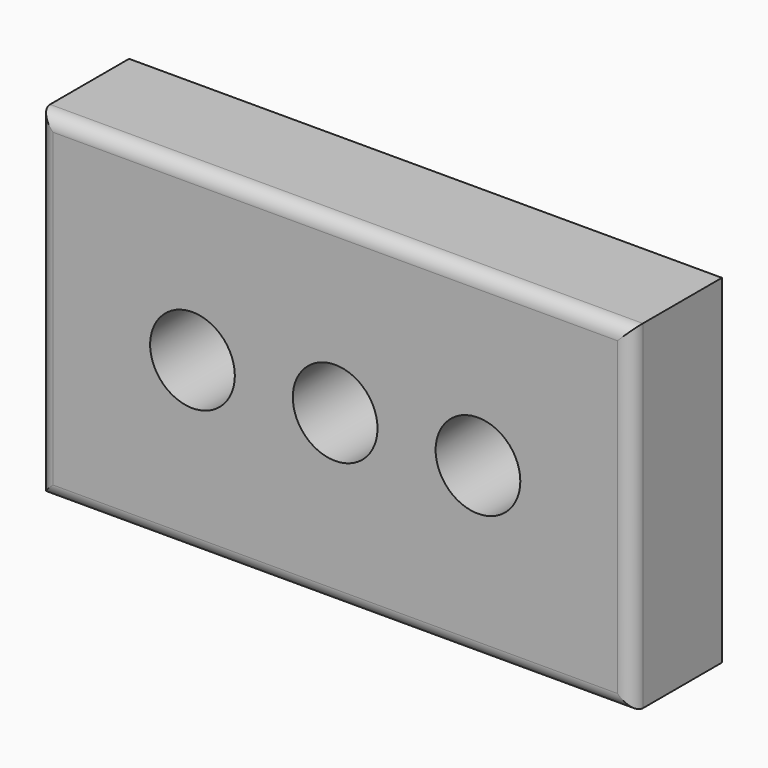
from build123d import *

# Parameters (mm, degrees)
F0_W     = 105
F0_H     = 60
F1_DEPTH = 20
F3_DEPTH = 20
F2_R     = 7.5
F4_DEPTH = 20
F5_R     = 2.5


with BuildPart() as f1:
    # F0 (on Front) → F1 (new body)
    with BuildSketch(Plane.XZ):
        Rectangle(F0_W, F0_H)
        Rectangle(F0_W, F0_H)
    extrude(amount=F1_DEPTH)

    # F2 (on face) → F3 (cut)
    with BuildSketch(Plane.XZ.offset(20)):
        with BuildLine():
            ThreePointArc((-7.5, 0), (0, -7.5), (7.5, 0))
            ThreePointArc((7.5, 0), (0, 7.5), (-7.5, 0))
        make_face()
    extrude(amount=-F3_DEPTH, mode=Mode.SUBTRACT)

    # F2 (on face) → F4 (cut)
    with BuildSketch(Plane.XZ.offset(20)):
        with BuildLine():
            ThreePointArc((-7.5, 0), (0, -7.5), (7.5, 0))
            ThreePointArc((7.5, 0), (0, 7.5), (-7.5, 0))
        make_face()
        with Locations((-25.269987, 0)):
            Circle(F2_R)
        with Locations((25.294037, 0)):
            Circle(F2_R)
    extrude(amount=-F4_DEPTH, mode=Mode.SUBTRACT)

    # F5
    f5_edges = [f1.edges().sort_by_distance(p)[0] for p in [
        (0, -20, 30),
        (-52.5, -20, 0),
        (0, -20, -30),
        (52.5, -20, 0),
    ]]
    fillet(f5_edges, radius=F5_R)


solid = f1.part
